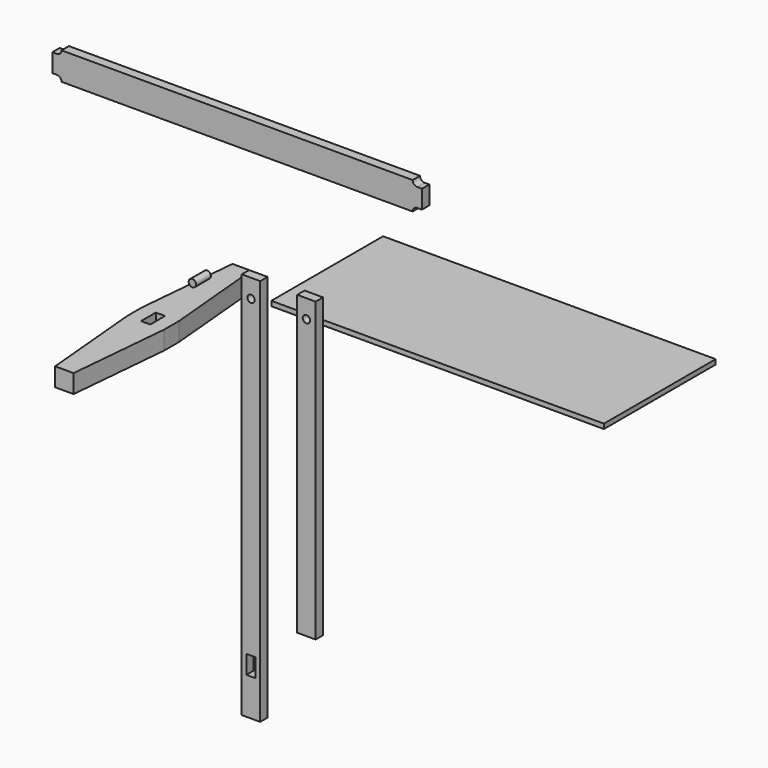
from build123d import *

# Parameters (mm, degrees)
F1_DEPTH  = 50
F2_W      = 25
F2_H      = 50
F3_DEPTH  = 50
F4_W      = 50
F4_H      = 1050
F5_DEPTH  = 25
F6_W      = 25
F6_H      = 50
F6_R      = 10
F7_DEPTH  = 25
F8_W      = 50
F8_H      = 805
F9_DEPTH  = 25
F10_R     = 10
F11_DEPTH = 25
F13_DEPTH = 25
F14_R     = 10
F15_DEPTH = 50
F16_W     = 900
F16_H     = 378
F17_DEPTH = 13


with BuildPart() as f1:
    # F0 (on Top) → F1 (new body)
    with BuildSketch(Plane.XY):
        Polygon((-75, 225), (-125, 225), (-150, -50), (-150, -100), (-125, -375), (-75, -375), (-50, -100), (-50, -50), align=None)
    extrude(amount=F1_DEPTH)

    # F2 (on face) → F3 (cut, through all)
    with BuildSketch(Plane.XY.offset(50)):
        with Locations((-100, -75)):
            Rectangle(F2_W, F2_H)
    extrude(amount=-F3_DEPTH, mode=Mode.SUBTRACT)


with BuildPart() as f5:
    # F4 (on Front) → F5 (new body)
    with BuildSketch(Plane.XZ):
        with Locations((125, -325)):
            Rectangle(F4_W, F4_H)
    extrude(amount=F5_DEPTH)

    # F6 (on face) → F7 (cut, through all)
    with BuildSketch(Plane.XZ.offset(25)):
        with Locations((125, -725)):
            Rectangle(F6_W, F6_H)
        with Locations((125, 150)):
            Circle(F6_R)
    extrude(amount=-F7_DEPTH, mode=Mode.SUBTRACT)


with BuildPart() as f9:
    # F8 (on Front) → F9 (new body)
    with BuildSketch(Plane.XZ):
        with Locations((275, -202.5)):
            Rectangle(F8_W, F8_H)
    extrude(amount=F9_DEPTH)

    # F10 (on face) → F11 (cut, through all)
    with BuildSketch(Plane.XZ.offset(25)):
        with Locations((275, 150)):
            Circle(F10_R)
    extrude(amount=-F11_DEPTH, mode=Mode.SUBTRACT)


with BuildPart() as f13:
    # F12 (on Front) → F13 (new body)
    with BuildSketch(Plane.XZ):
        with BuildLine():
            Line((-400, 562.5), (-412.5, 562.5))
            Line((-412.5, 562.5), (-412.5, 512.5))
            Line((-412.5, 512.5), (-400, 512.5))
            ThreePointArc((-400, 512.5), (-391.161165, 508.838835), (-387.5, 500))
            Line((-387.5, 500), (562.5, 500))
            ThreePointArc((562.5, 500), (566.161165, 508.838835), (575, 512.5))
            Line((575, 512.5), (587.5, 512.5))
            Line((587.5, 512.5), (587.5, 562.5))
            Line((587.5, 562.5), (575, 562.5))
            ThreePointArc((575, 562.5), (566.161165, 566.161165), (562.5, 575))
            Line((562.5, 575), (-387.5, 575))
            ThreePointArc((-387.5, 575), (-391.161165, 566.161165), (-400, 562.5))
        make_face()
    extrude(amount=F13_DEPTH)


with BuildPart() as f15:
    # F14 (on Front) → F15 (new body)
    with BuildSketch(Plane.XZ):
        with Locations((-13.534553, 152.277187)):
            Circle(F14_R)
    extrude(amount=F15_DEPTH)


with BuildPart() as f17:
    # F16 (on Top) → F17 (new body)
    with BuildSketch(Plane.XY):
        with Locations((450, 389)):
            Rectangle(F16_W, F16_H)
    extrude(amount=F17_DEPTH)


solid = Compound([f1.part, f5.part, f9.part, f13.part, f15.part, f17.part])
